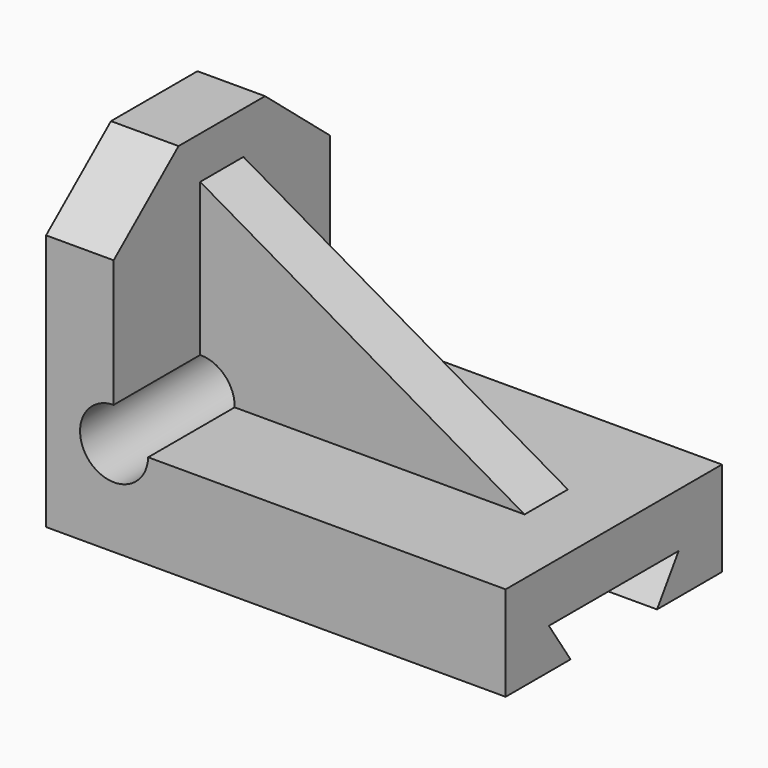
from build123d import *

# Parameters (mm, degrees)
F1_DEPTH  = 31.75
F3_DEPTH  = 107.951
F5_DEPTH  = 6.35
F7_DEPTH  = 38.1
F8_DEPTH  = 25.4
F9_R      = 7.999836
F10_DEPTH = 127


with BuildPart() as f1:
    # F0 (on Front) → F1 (new body, symmetric)
    with BuildSketch(Plane.XZ):
        Polygon((0, 76.2), (0, 0), (107.95, 0), (107.95, 22.225), (15.875, 22.225), (15.875, 76.2), align=None)
    extrude(amount=F1_DEPTH, both=True)

    # F2 (on face) → F3 (cut, through all)
    with BuildSketch(Plane.YZ.offset(107.95)):
        Polygon((-12.7, 0), (12.7, 0), (19.05, 9.525), (-19.05, 9.525), align=None)
    extrude(amount=-F3_DEPTH, mode=Mode.SUBTRACT)

    # F4 (on Front) → F5 (join, symmetric)
    with BuildSketch(Plane.XZ):
        Polygon((92.075, 22.225), (15.875, 66.219091), (15.875, 22.225), align=None)
    extrude(amount=F5_DEPTH, both=True)

    # F6 (on face) → F7 (cut, symmetric)
    with BuildSketch(Plane(origin=(0, 0, 0), x_dir=(0, -1, 0), z_dir=(-1, 0, 0))):
        Polygon((-31.75, 60.325), (-12.7, 76.2), (-31.75, 76.2), align=None)
        Polygon((31.75, 76.2), (12.7, 76.2), (31.75, 60.325), align=None)
    extrude(amount=F7_DEPTH, both=True, mode=Mode.SUBTRACT)

    # F6 (on face) → F8 (cut)
    with BuildSketch(Plane(origin=(0, 0, 0), x_dir=(0, -1, 0), z_dir=(-1, 0, 0))):
        Polygon((-31.75, 60.325), (-12.7, 76.2), (-31.75, 76.2), align=None)
        Polygon((31.75, 76.2), (12.7, 76.2), (31.75, 60.325), align=None)
    extrude(amount=-F8_DEPTH, mode=Mode.SUBTRACT)

    # F9 (on Front) → F10 (cut, symmetric)
    with BuildSketch(Plane.XZ):
        with Locations((15.979823, 22.425991)):
            Circle(F9_R)
    extrude(amount=F10_DEPTH, both=True, mode=Mode.SUBTRACT)


solid = f1.part
